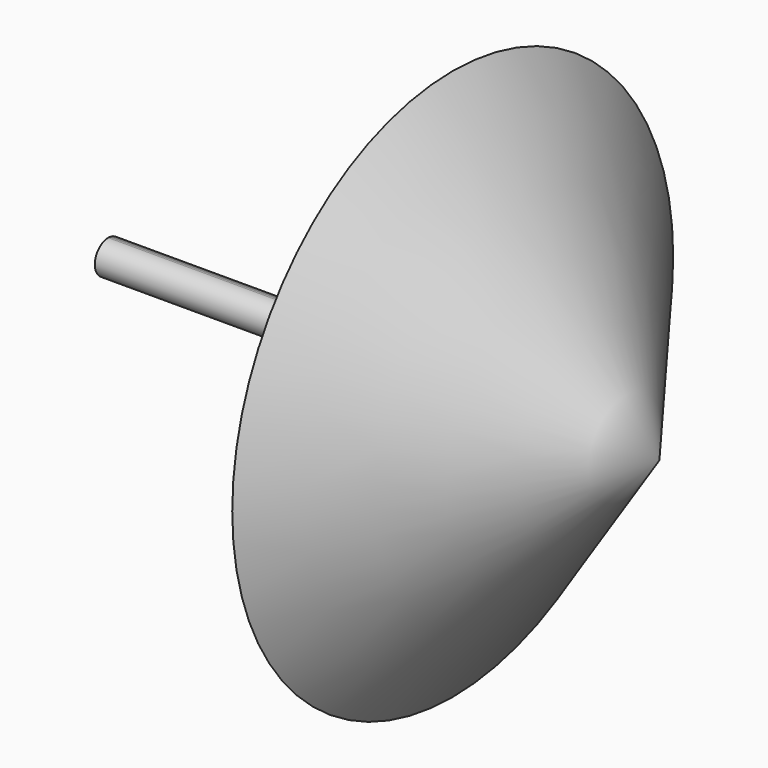
from build123d import *

# Parameters (mm, degrees)
F0_W     = 49.403
F0_H     = 1.543844
F4_ANGLE = 180


with BuildPart() as f1:
    # F0 (on Front) → F1 (revolve)
    with BuildSketch(Plane.XZ):
        with Locations((24.7015, 0.771922)):
            Rectangle(F0_W, F0_H)
    revolve(axis=Axis((24.7015, 0, 0), (1, 0, 0)))


with BuildPart() as f3:
    # F2 (on Front) → F3 (revolve)
    with BuildSketch(Plane.XZ):
        Polygon((31.75, 25.4), (31.75, 0), (50.8, 0), align=None)
    revolve(axis=Axis((41.275, 0, 0), (-1, 0, 0)))


with BuildPart() as f4:
    # F0 (on Front) → F4 (revolve)
    with BuildSketch(Plane.XZ):
        with Locations((24.7015, 0.771922)):
            Rectangle(F0_W, F0_H)
    revolve(axis=Axis((41.275, 0, 0), (-1, 0, 0)), revolution_arc=F4_ANGLE)


solid = Compound([f1.part, f3.part, f4.part])
